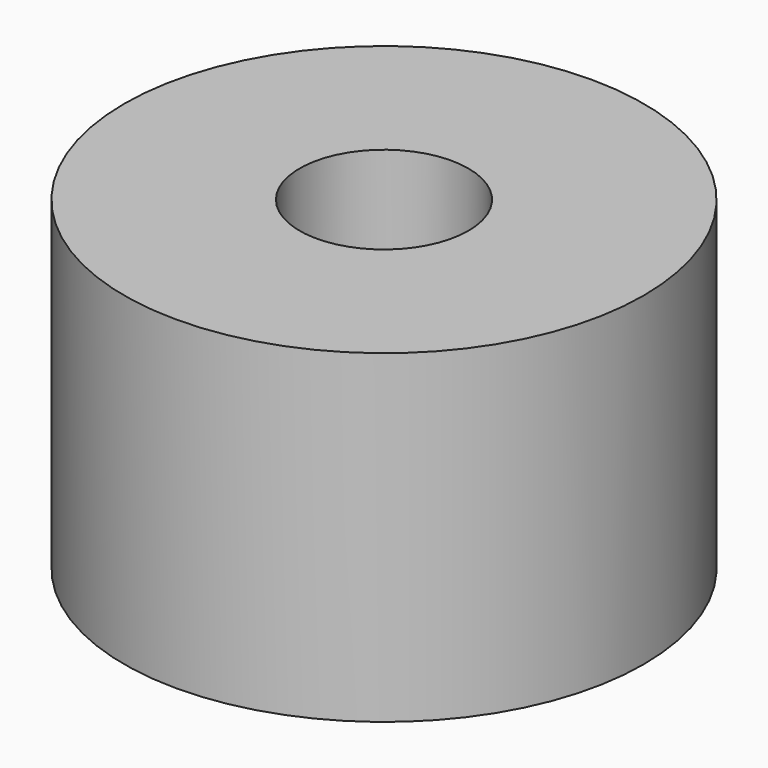
from build123d import *

# Parameters (mm, degrees)
CYLINDER998_R      = 1
CYLINDER998_DEPTH  = 20
CYLINDER1002_R     = 1
CYLINDER1002_DEPTH = 20
CYLINDER999_R      = 1
CYLINDER999_DEPTH  = 20
CYLINDER995_R      = 1
CYLINDER995_DEPTH  = 20
TUBE082_R          = 8
TUBE082_R_2        = 2.6
TUBE082_DEPTH      = 10


with BuildPart() as obj1:
    # Cylinder998 → Cylinder998 (new body)
    with BuildSketch(Plane(origin=(4.25, -4.25, -88), x_dir=(0, 1, 0), z_dir=(0, 0, 1))):
        Circle(CYLINDER998_R)
    extrude(amount=CYLINDER998_DEPTH)


with BuildPart() as obj2:
    # Cylinder1002 → Cylinder1002 (new body)
    with BuildSketch(Plane(origin=(4.25, 4.25, -88), x_dir=(-1, 0, 0), z_dir=(0, 0, 1))):
        Circle(CYLINDER1002_R)
    extrude(amount=CYLINDER1002_DEPTH)


with BuildPart() as obj3:
    # Cylinder999 → Cylinder999 (new body)
    with BuildSketch(Plane(origin=(-4.25, 4.25, -88), x_dir=(0, -1, 0), z_dir=(0, 0, 1))):
        Circle(CYLINDER999_R)
    extrude(amount=CYLINDER999_DEPTH)


with BuildPart() as compound814:
    # Cylinder995 → Cylinder995 (new body)
    with BuildSketch(Plane(origin=(-4.25, -4.25, -88), x_dir=(1, 0, 0), z_dir=(0, 0, 1))):
        Circle(CYLINDER995_R)
    extrude(amount=CYLINDER995_DEPTH)

    # Compound814: union obj1, obj2, obj3
    add(obj1.part)
    add(obj2.part)
    add(obj3.part)


with BuildPart() as compound814_1:
    # Compound814 placement: moved
    add(compound814.part.moved(Location((0, 0, 91))))


with BuildPart() as cut356:
    # Tube082 → Tube082 (new body)
    with BuildSketch(Plane.XY.offset(19)):
        Circle(TUBE082_R)
        Circle(TUBE082_R_2, mode=Mode.SUBTRACT)
    extrude(amount=TUBE082_DEPTH)

    # Cut356: cut Compound814
    add(compound814_1.part, mode=Mode.SUBTRACT)


solid = cut356.part
